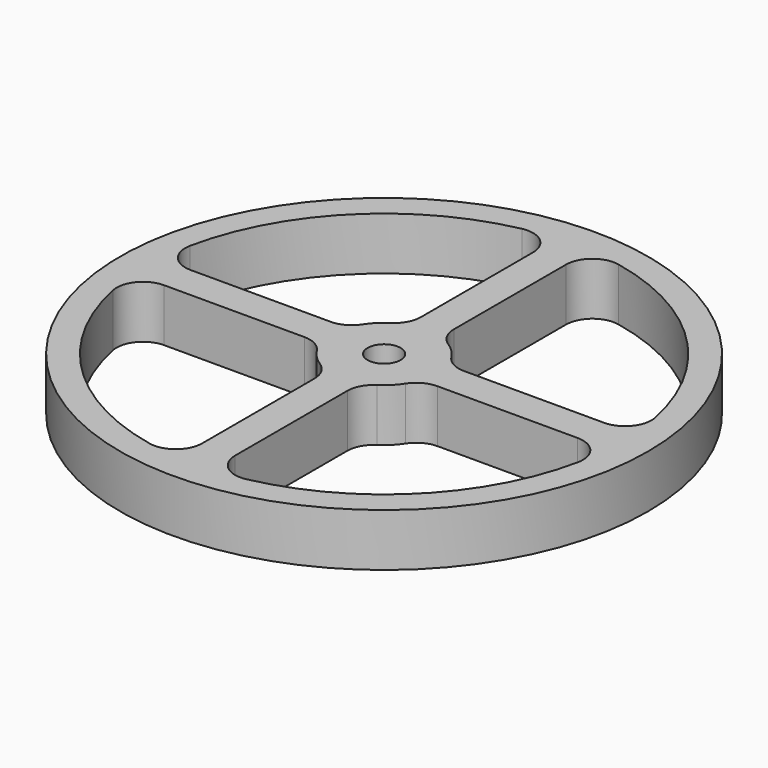
from build123d import *

# Parameters (mm, degrees)
F0_R     = 10
F0_R_2   = 0.625
F1_DEPTH = 2


with BuildPart() as f1:
    # F0 (on Top) → F1 (new body)
    with BuildSketch(Plane.XY):
        Circle(F0_R)
        with BuildLine():
            Line((-0.625, -2.52178), (-0.625, -7.833223))
            ThreePointArc((-0.625, -7.833223), (-0.993781, -8.608827), (-1.828125, -8.812375))
            ThreePointArc((-1.828125, -8.812375), (-6.363961, -6.363961), (-8.812375, -1.828125))
            ThreePointArc((-8.812375, -1.828125), (-8.608827, -0.993781), (-7.833223, -0.625))
            Line((-7.833223, -0.625), (-2.52178, -0.625))
            ThreePointArc((-2.52178, -0.625), (-2.043067, -0.747029), (-1.681187, -1.083333))
            ThreePointArc((-1.681187, -1.083333), (-1.414214, -1.414214), (-1.083333, -1.681187))
            ThreePointArc((-1.083333, -1.681187), (-0.747029, -2.043067), (-0.625, -2.52178))
        make_face(mode=Mode.SUBTRACT)
        with BuildLine():
            Line((2.52178, -0.625), (7.833223, -0.625))
            ThreePointArc((7.833223, -0.625), (8.608827, -0.993781), (8.812375, -1.828125))
            ThreePointArc((8.812375, -1.828125), (6.363961, -6.363961), (1.828125, -8.812375))
            ThreePointArc((1.828125, -8.812375), (0.993781, -8.608827), (0.625, -7.833223))
            Line((0.625, -7.833223), (0.625, -2.52178))
            ThreePointArc((0.625, -2.52178), (0.747029, -2.043067), (1.083333, -1.681187))
            ThreePointArc((1.083333, -1.681187), (1.414214, -1.414214), (1.681187, -1.083333))
            ThreePointArc((1.681187, -1.083333), (2.043067, -0.747029), (2.52178, -0.625))
        make_face(mode=Mode.SUBTRACT)
        with BuildLine():
            ThreePointArc((-0.625, 2.52178), (-0.747029, 2.043067), (-1.083333, 1.681187))
            ThreePointArc((-1.083333, 1.681187), (-1.414214, 1.414214), (-1.681187, 1.083333))
            ThreePointArc((-1.681187, 1.083333), (-2.043067, 0.747029), (-2.52178, 0.625))
            Line((-2.52178, 0.625), (-7.833223, 0.625))
            ThreePointArc((-7.833223, 0.625), (-8.608827, 0.993781), (-8.812375, 1.828125))
            ThreePointArc((-8.812375, 1.828125), (-6.363961, 6.363961), (-1.828125, 8.812375))
            ThreePointArc((-1.828125, 8.812375), (-0.993781, 8.608827), (-0.625, 7.833223))
            Line((-0.625, 7.833223), (-0.625, 2.52178))
        make_face(mode=Mode.SUBTRACT)
        Circle(F0_R_2, mode=Mode.SUBTRACT)
        with BuildLine():
            ThreePointArc((1.828125, 8.812375), (6.363961, 6.363961), (8.812375, 1.828125))
            ThreePointArc((8.812375, 1.828125), (8.608827, 0.993781), (7.833223, 0.625))
            Line((7.833223, 0.625), (2.52178, 0.625))
            ThreePointArc((2.52178, 0.625), (2.043067, 0.747029), (1.681187, 1.083333))
            ThreePointArc((1.681187, 1.083333), (1.414214, 1.414214), (1.083333, 1.681187))
            ThreePointArc((1.083333, 1.681187), (0.747029, 2.043067), (0.625, 2.52178))
            Line((0.625, 2.52178), (0.625, 7.833223))
            ThreePointArc((0.625, 7.833223), (0.993781, 8.608827), (1.828125, 8.812375))
        make_face(mode=Mode.SUBTRACT)
    extrude(amount=F1_DEPTH)


solid = f1.part
